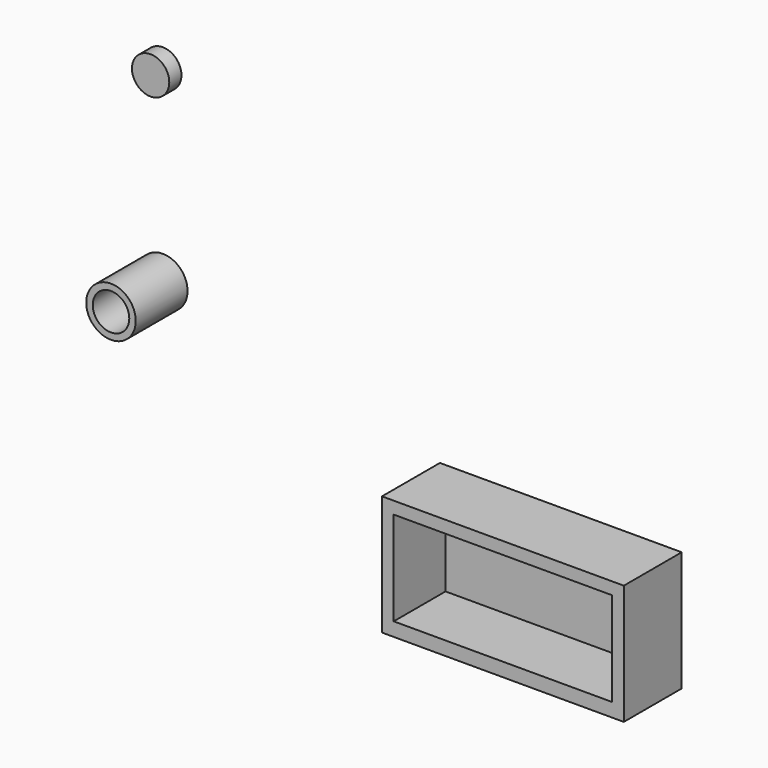
from build123d import *

# Parameters (mm, degrees)
F0_W     = 31.75
F0_H     = 15.75
F1_DEPTH = 9.5
F2_R     = 2.45
F3_DEPTH = 2
F4_W     = 28.669356
F4_H     = 12.33871
F5_DEPTH = 8.5
F6_R     = 3.25
F7_DEPTH = 8.5
F8_R     = 2.4
F9_DEPTH = 8.5


with BuildPart() as f1:
    # F0 (on Front) → F1 (new body)
    with BuildSketch(Plane.XZ):
        with Locations((0.725808, -4.089461)):
            Rectangle(F0_W, F0_H)
    extrude(amount=F1_DEPTH)

    # F4 (on face) → F5 (cut)
    with BuildSketch(Plane.XZ.offset(9.5)):
        with Locations((0.725806, -3.991936)):
            Rectangle(F4_W, F4_H)
    extrude(amount=-F5_DEPTH, mode=Mode.SUBTRACT)


with BuildPart() as f3:
    # F2 (on Front) → F3 (new body)
    with BuildSketch(Plane.XZ):
        with Locations((-51.532261, 37.560485)):
            Circle(F2_R)
    extrude(amount=F3_DEPTH)


with BuildPart() as f7:
    # F6 (on Front) → F7 (new body)
    with BuildSketch(Plane.XZ):
        with Locations((-51.532261, 12.883065)):
            Circle(F6_R)
    extrude(amount=F7_DEPTH)

    # F8 (on face) → F9 (cut)
    with BuildSketch(Plane.XZ.offset(8.5)):
        with Locations((-51.532261, 12.883065)):
            Circle(F8_R)
    extrude(amount=-F9_DEPTH, mode=Mode.SUBTRACT)


solid = Compound([f1.part, f3.part, f7.part])
